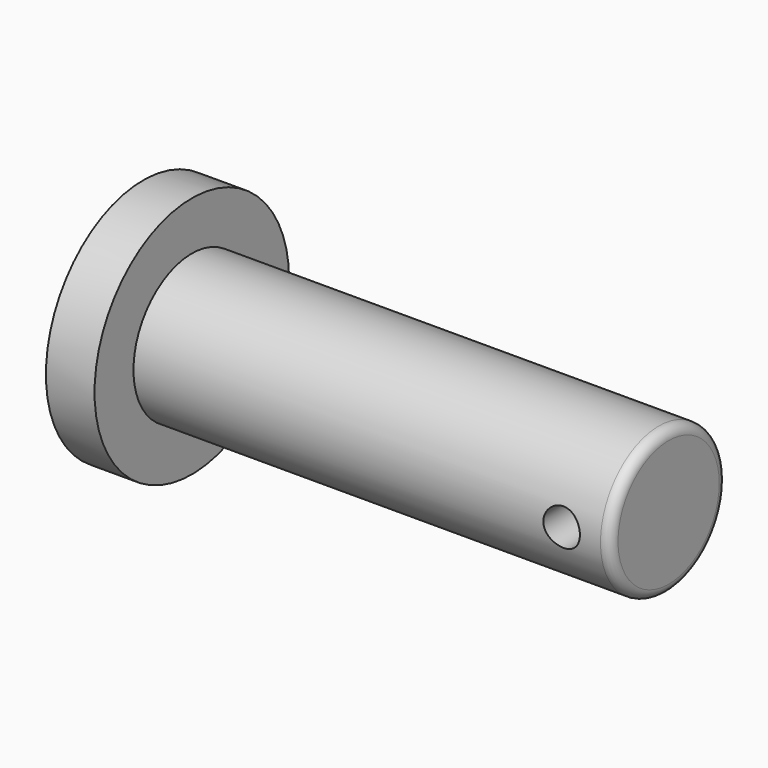
from build123d import *

# Parameters (mm, degrees)
F0_R     = 15.875
F1_DEPTH = 6.35
F2_R     = 9.525
F3_DEPTH = 62.23
F4_R     = 1.27
F5_R     = 2.3876
F6_DEPTH = 50.8


with BuildPart() as f1:
    # F0 (on Right) → F1 (new body)
    with BuildSketch(Plane.YZ):
        with Locations((15.875, 0)):
            Circle(F0_R)
    extrude(amount=F1_DEPTH)

    # F2 (on face) → F3 (join)
    with BuildSketch(Plane.YZ.offset(6.35)):
        with Locations((15.875, 0)):
            Circle(F2_R)
    extrude(amount=F3_DEPTH)

    # F4
    f4_edges = [f1.edges().sort_by_distance(p)[0] for p in [
        (68.58, 6.35, 0),
    ]]
    fillet(f4_edges, radius=F4_R)

    # F5 (on Front) → F6 (cut)
    with BuildSketch(Plane.XZ):
        with Locations((62.23, 0)):
            Circle(F5_R)
    extrude(amount=-F6_DEPTH, mode=Mode.SUBTRACT)


solid = f1.part
